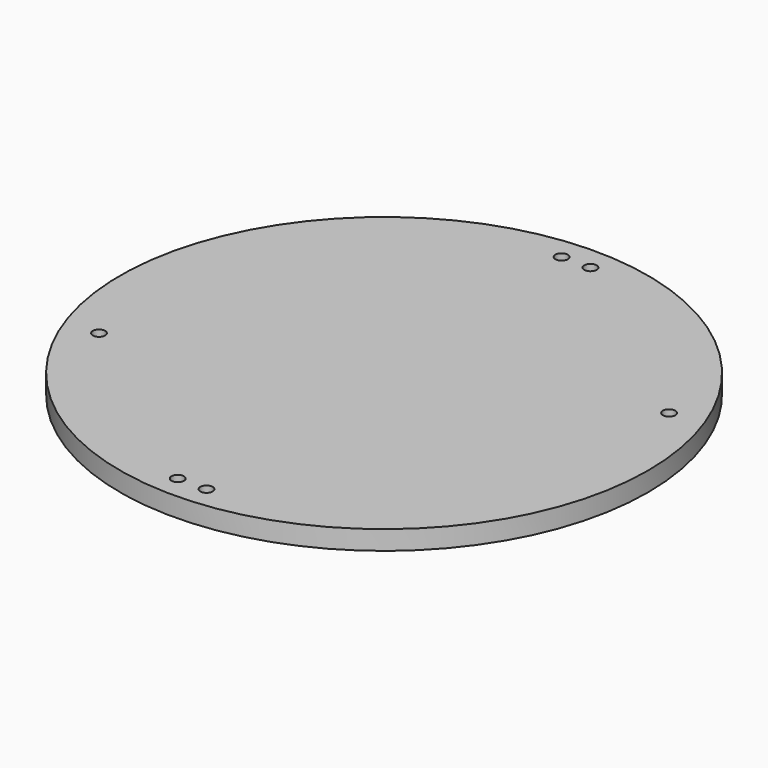
from build123d import *

# Parameters (mm, degrees)
SKETCH_R        = 55
PAD_DEPTH       = 4
SKETCH003_R     = 1.3
POCKET001_DEPTH = 5
SKETCH004_R     = 1.3
POCKET_DEPTH    = 5


with BuildPart() as part:
    # Sketch → Pad (new body)
    with BuildSketch(Plane.XY):
        Circle(SKETCH_R)
    extrude(amount=PAD_DEPTH)

    # Sketch003 → Pocket001 (cut)
    with BuildSketch(Plane.XY.offset(4)):
        with Locations((-45, -18)):
            Circle(SKETCH003_R)
        with Locations((45, 18)):
            Circle(SKETCH003_R)
    extrude(amount=-POCKET001_DEPTH, mode=Mode.SUBTRACT)

    # Sketch004 (on Face3 of Pocket001) → Pocket (cut)
    with BuildSketch(Plane.XY.offset(4)):
        with Locations((3, -50)):
            Circle(SKETCH004_R)
        with Locations((-3, -50)):
            Circle(SKETCH004_R)
        with Locations((-3, 50)):
            Circle(SKETCH004_R)
        with Locations((3, 50)):
            Circle(SKETCH004_R)
    extrude(amount=-POCKET_DEPTH, mode=Mode.SUBTRACT)


solid = part.part
